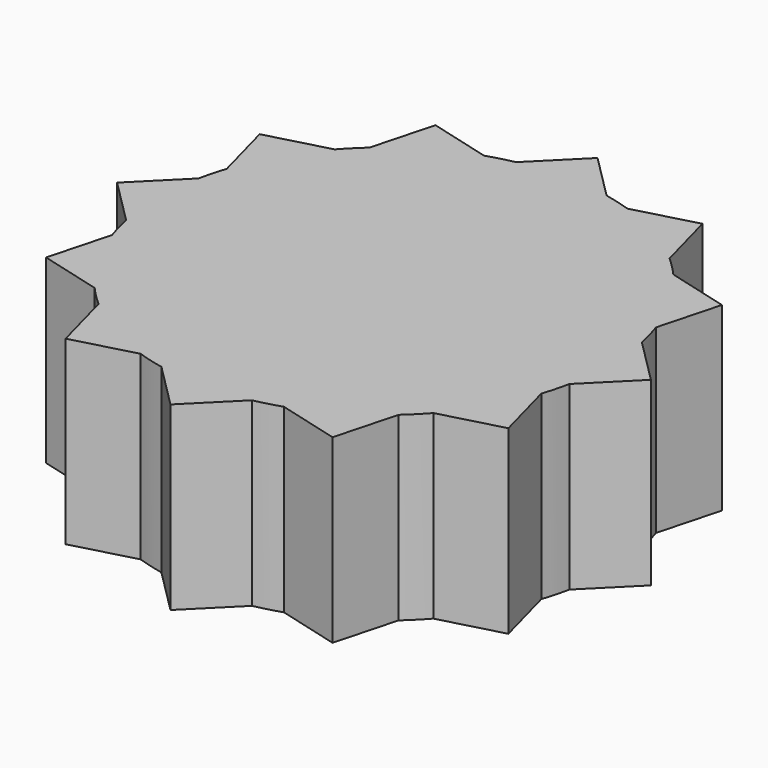
from build123d import *

# Parameters (mm, degrees)
F1_DEPTH = 4


with BuildPart() as f1:
    # F0 (on Top) → F1 (new body)
    with BuildSketch(Plane.XY):
        with BuildLine():
            ThreePointArc((4.898979, -1), (4.974681, -0.502545), (5, 0))
            ThreePointArc((5, 0), (4.974681, 0.502545), (4.898979, 1))
            ThreePointArc((4.898979, 1), (4.829629, 1.294095), (4.742641, 1.583464))
            ThreePointArc((4.742641, 1.583464), (4.330127, 2.5), (3.742641, 3.315515))
            ThreePointArc((3.742641, 3.315515), (3.535534, 3.535534), (3.315515, 3.742641))
            ThreePointArc((3.315515, 3.742641), (2.5, 4.330127), (1.583464, 4.742641))
            ThreePointArc((1.583464, 4.742641), (1.294095, 4.829629), (1, 4.898979))
            Line((1, 4.898979), (-1, 4.898979))
            ThreePointArc((-1, 4.898979), (-1.294095, 4.829629), (-1.583464, 4.742641))
            ThreePointArc((-1.583464, 4.742641), (-2.5, 4.330127), (-3.315515, 3.742641))
            ThreePointArc((-3.315515, 3.742641), (-3.535534, 3.535534), (-3.742641, 3.315515))
            ThreePointArc((-3.742641, 3.315515), (-4.330127, 2.5), (-4.742641, 1.583464))
            ThreePointArc((-4.742641, 1.583464), (-4.829629, 1.294095), (-4.898979, 1))
            ThreePointArc((-4.898979, 1), (-5, 0), (-4.898979, -1))
            ThreePointArc((-4.898979, -1), (-4.829629, -1.294095), (-4.742641, -1.583464))
            ThreePointArc((-4.742641, -1.583464), (-4.330127, -2.5), (-3.742641, -3.315515))
            ThreePointArc((-3.742641, -3.315515), (-3.535534, -3.535534), (-3.315515, -3.742641))
            ThreePointArc((-3.315515, -3.742641), (-2.5, -4.330127), (-1.583464, -4.742641))
            ThreePointArc((-1.583464, -4.742641), (-1.294095, -4.829629), (-1, -4.898979))
            ThreePointArc((-1, -4.898979), (0, -5), (1, -4.898979))
            ThreePointArc((1, -4.898979), (1.294095, -4.829629), (1.583464, -4.742641))
            ThreePointArc((1.583464, -4.742641), (2.5, -4.330127), (3.315515, -3.742641))
            ThreePointArc((3.315515, -3.742641), (3.535534, -3.535534), (3.742641, -3.315515))
            ThreePointArc((3.742641, -3.315515), (4.330127, -2.5), (4.742641, -1.583464))
            ThreePointArc((4.742641, -1.583464), (4.829629, -1.294095), (4.898979, -1))
        make_face()
        with BuildLine():
            Line((-1, 4.898979), (1, 4.898979))
            ThreePointArc((1, 4.898979), (0, 5), (-1, 4.898979))
        make_face()
        with BuildLine():
            ThreePointArc((-3.315515, 3.742641), (-2.5, 4.330127), (-1.583464, 4.742641))
            Line((-1.583464, 4.742641), (-2.94949, 5.108666))
            Line((-2.94949, 5.108666), (-3.315515, 3.742641))
        make_face()
        with BuildLine():
            ThreePointArc((-1, 4.898979), (0, 5), (1, 4.898979))
            Line((1, 4.898979), (0, 5.898979))
            Line((0, 5.898979), (-1, 4.898979))
        make_face()
        with BuildLine():
            ThreePointArc((1.583464, 4.742641), (2.5, 4.330127), (3.315515, 3.742641))
            Line((3.315515, 3.742641), (2.94949, 5.108666))
            Line((2.94949, 5.108666), (1.583464, 4.742641))
        make_face()
        with BuildLine():
            ThreePointArc((3.742641, 3.315515), (4.330127, 2.5), (4.742641, 1.583464))
            Line((4.742641, 1.583464), (5.108666, 2.94949))
            Line((5.108666, 2.94949), (3.742641, 3.315515))
        make_face()
        with BuildLine():
            ThreePointArc((4.898979, 1), (4.974681, 0.502545), (5, 0))
            ThreePointArc((5, 0), (4.974681, -0.502545), (4.898979, -1))
            Line((4.898979, -1), (5.898979, 0))
            Line((5.898979, 0), (4.898979, 1))
        make_face()
        with BuildLine():
            Line((5.108666, -2.94949), (4.742641, -1.583464))
            ThreePointArc((4.742641, -1.583464), (4.330127, -2.5), (3.742641, -3.315515))
            Line((3.742641, -3.315515), (5.108666, -2.94949))
        make_face()
        with BuildLine():
            Line((2.94949, -5.108666), (3.315515, -3.742641))
            ThreePointArc((3.315515, -3.742641), (2.5, -4.330127), (1.583464, -4.742641))
            Line((1.583464, -4.742641), (2.94949, -5.108666))
        make_face()
        with BuildLine():
            Line((0, -5.898979), (1, -4.898979))
            ThreePointArc((1, -4.898979), (0, -5), (-1, -4.898979))
            Line((-1, -4.898979), (0, -5.898979))
        make_face()
        with BuildLine():
            Line((-2.94949, -5.108666), (-1.583464, -4.742641))
            ThreePointArc((-1.583464, -4.742641), (-2.5, -4.330127), (-3.315515, -3.742641))
            Line((-3.315515, -3.742641), (-2.94949, -5.108666))
        make_face()
        with BuildLine():
            Line((-5.108666, -2.94949), (-3.742641, -3.315515))
            ThreePointArc((-3.742641, -3.315515), (-4.330127, -2.5), (-4.742641, -1.583464))
            Line((-4.742641, -1.583464), (-5.108666, -2.94949))
        make_face()
        with BuildLine():
            ThreePointArc((-4.898979, -1), (-5, 0), (-4.898979, 1))
            Line((-4.898979, 1), (-5.898979, 0))
            Line((-5.898979, 0), (-4.898979, -1))
        make_face()
        with BuildLine():
            ThreePointArc((-4.742641, 1.583464), (-4.330127, 2.5), (-3.742641, 3.315515))
            Line((-3.742641, 3.315515), (-5.108666, 2.94949))
            Line((-5.108666, 2.94949), (-4.742641, 1.583464))
        make_face()
    extrude(amount=F1_DEPTH)


solid = f1.part
